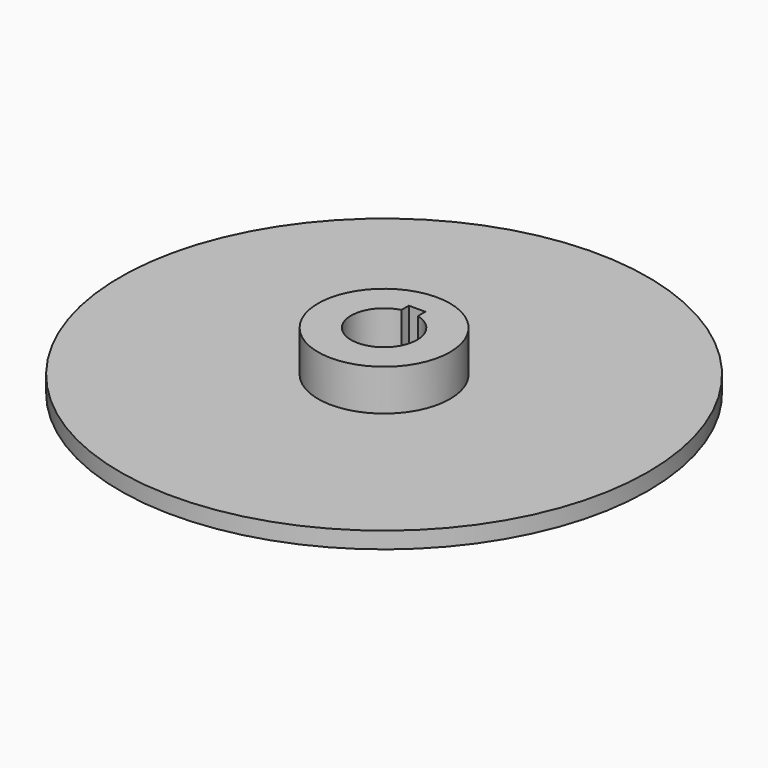
from build123d import *

# Parameters (mm, degrees)
F0_R     = 101.6
F1_DEPTH = 6.35
F2_R     = 25.4
F3_DEPTH = 15.875
F5_DEPTH = 22.226


with BuildPart() as f1:
    # F0 (on Top) → F1 (new body)
    with BuildSketch(Plane.XY):
        Circle(F0_R)
    extrude(amount=F1_DEPTH)

    # F2 (on face) → F3 (join)
    with BuildSketch(Plane.XY.offset(6.35)):
        Circle(F2_R)
    extrude(amount=F3_DEPTH)

    # F4 (on face) → F5 (cut, through all)
    with BuildSketch(Plane.XY.offset(22.225)):
        with BuildLine():
            ThreePointArc((-3.175, 12.296722), (-7.77713, -10.040232), (12.7, 0))
            ThreePointArc((12.7, 0), (10.040232, 7.77713), (3.175, 12.296722))
            Line((3.175, 12.296722), (3.175, 9.525))
            Line((3.175, 9.525), (-3.175, 9.525))
            Line((-3.175, 9.525), (-3.175, 12.296722))
        make_face()
        with BuildLine():
            Line((3.175, 9.525), (3.175, 12.296722))
            ThreePointArc((3.175, 12.296722), (0, 12.7), (-3.175, 12.296722))
            Line((-3.175, 12.296722), (-3.175, 9.525))
            Line((-3.175, 9.525), (3.175, 9.525))
        make_face()
        with BuildLine():
            ThreePointArc((-3.175, 12.296722), (0, 12.7), (3.175, 12.296722))
            Line((3.175, 12.296722), (3.175, 15.875))
            Line((3.175, 15.875), (-3.175, 15.875))
            Line((-3.175, 15.875), (-3.175, 12.296722))
        make_face()
    extrude(amount=-F5_DEPTH, mode=Mode.SUBTRACT)


solid = f1.part
